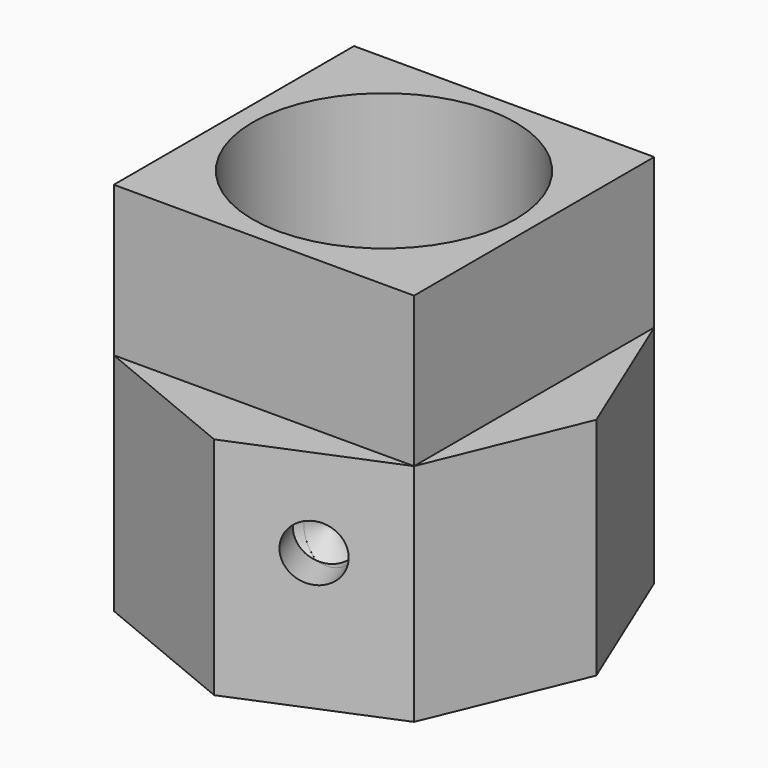
from build123d import *

# Parameters (mm, degrees)
F1_DEPTH   = 76.2
F0_W       = 101.6
F0_H       = 101.6
F2_DEPTH   = 127
F3_D       = 88.9
F5_D       = 19.05
F5_DEPTH   = 12.7
F5_TIP     = 5.7231973962
F5_2_D     = 19.05
F5_2_DEPTH = 12.7
F5_2_TIP   = 5.7231973962


with BuildPart() as f1:
    # F0 (on Top) → F1 (new body)
    with BuildSketch(Plane.XY):
        Polygon((0, -71.8420489686), (50.8, -50.8), (-50.8, -50.8), align=None)
    extrude(amount=F1_DEPTH)

    # F5
    with Locations(Plane(origin=(25.4, -61.3210244843, 0), x_dir=(0.9238795325, 0.3826834324, 0), z_dir=(0.3826834324, -0.9238795325, 0))):
        with Locations((0, 46.3376045227)):
            Hole(F5_D / 2, depth=F5_DEPTH)
            with Locations((0, 0, -(F5_DEPTH + F5_TIP / 2))):  # 118° drill point
                Cone(0, F5_D / 2, F5_TIP, mode=Mode.SUBTRACT)


with BuildPart() as f1b:
    # F0 (on Top) → F1, piece 2 (new body)
    with BuildSketch(Plane.XY):
        Polygon((-50.8, 50.8), (50.8, 50.8), (0, 71.8420489686), align=None)
    extrude(amount=F1_DEPTH)


with BuildPart() as f1c:
    # F0 (on Top) → F1, piece 3 (new body)
    with BuildSketch(Plane.XY):
        Polygon((50.8, 50.8), (50.8, -50.8), (71.8420489686, 0), align=None)
    extrude(amount=F1_DEPTH)


with BuildPart() as f1d:
    # F0 (on Top) → F1, piece 4 (new body)
    with BuildSketch(Plane.XY):
        Polygon((-71.8420489686, 0), (-50.8, -50.8), (-50.8, 50.8), align=None)
    extrude(amount=F1_DEPTH)


with BuildPart() as f2:
    # F0 (on Top) → F2 (new body)
    with BuildSketch(Plane.XY):
        Rectangle(F0_W, F0_H)
    extrude(amount=F2_DEPTH)

    # F3 (through all)
    with Locations(Plane(origin=(0, 0, 0), x_dir=(1, 0, 0), z_dir=(0, 0, -1))):
        with Locations((0, 0)):
            Hole(F3_D / 2)

    # F5#2
    with Locations(Plane(origin=(25.4, -61.3210244843, 0), x_dir=(0.9238795325, 0.3826834324, 0), z_dir=(0.3826834324, -0.9238795325, 0))):
        with Locations((0, 46.3376045227)):
            Hole(F5_2_D / 2, depth=F5_2_DEPTH)
            with Locations((0, 0, -(F5_2_DEPTH + F5_2_TIP / 2))):  # 118° drill point
                Cone(0, F5_2_D / 2, F5_2_TIP, mode=Mode.SUBTRACT)


solid = Compound([f1.part, f1b.part, f1c.part, f1d.part, f2.part])
